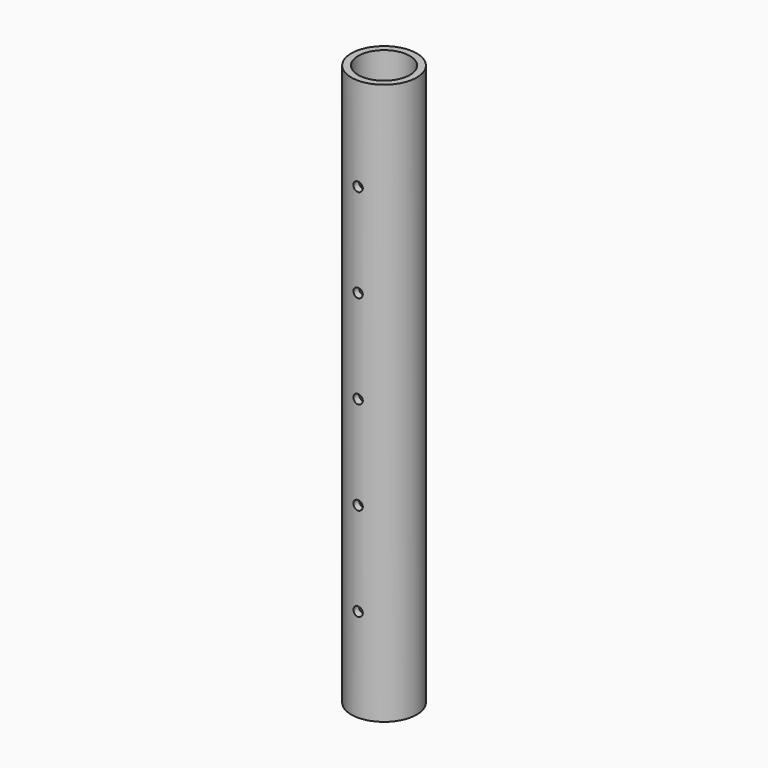
from build123d import *

# Parameters (mm, degrees)
F0_R          = 13.335
F0_R_2        = 10.541
F1_DEPTH      = 228.6
F2_R          = 1.905
F3_DEPTH      = 13.336
F3_DEPTH_BACK = 13.336


with BuildPart() as f1:
    # F0 (on Top) → F1 (new body)
    with BuildSketch(Plane.XY):
        Circle(F0_R)
        Circle(F0_R_2, mode=Mode.SUBTRACT)
    extrude(amount=F1_DEPTH)

    # F2 (on Front) → F3 (cut, two sides)
    with BuildSketch(Plane.XZ) as f3_sk:
        with Locations((0, 38.1)):
            Circle(F2_R)
        with Locations((0, 76.2)):
            Circle(F2_R)
        with Locations((0, 114.3)):
            Circle(F2_R)
        with Locations((0, 152.4)):
            Circle(F2_R)
        with Locations((0, 190.5)):
            Circle(F2_R)
    extrude(amount=-F3_DEPTH, mode=Mode.SUBTRACT)
    extrude(f3_sk.sketch, amount=F3_DEPTH_BACK, mode=Mode.SUBTRACT)


solid = f1.part
